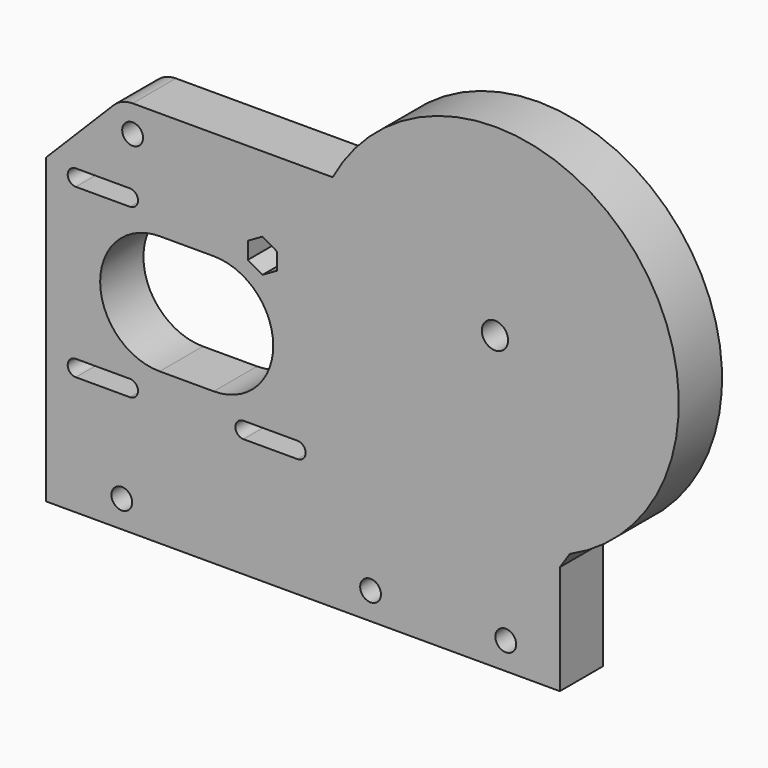
from build123d import *

# Parameters (mm, degrees)
SKETCH_R        = 2.425
SKETCH_R_2      = 1.925
PAD_DEPTH       = 10
POCKET_DEPTH    = 12
SKETCH002_R     = 1.925
POCKET001_DEPTH = 12
SKETCH003_R     = 1.5
POCKET002_DEPTH = 12
POCKET003_DEPTH = 6
CHAMFER_SIZE    = 2


with BuildPart() as part:
    # Sketch → Pad (new body)
    with BuildSketch(Plane.XZ):
        with BuildLine():
            ThreePointArc((12, -31.811947), (25.543993, 22.438904), (-30, 16))
            Line((-30, 16), (-67, 16))
            ThreePointArc((-67, 16), (-68.919984, 15.616672), (-70.545574, 14.525465))
            Line((-83, 2), (-70.545574, 14.525465))
            Line((-83, -54), (-83, 2))
            Line((-83, -54), (12, -54))
            Line((12, -54), (12, -31.811947))
        make_face()
        Circle(SKETCH_R, mode=Mode.SUBTRACT)
        with Locations((-67, 11)):
            Circle(SKETCH_R_2, mode=Mode.SUBTRACT)
    extrude(amount=PAD_DEPTH)

    # Sketch001 (on Face11 of Pad) → Pocket (cut)
    with BuildSketch(Plane.XZ.offset(10)):
        with BuildLine():
            ThreePointArc((-62, -4), (-73, -15), (-62, -26))
            Line((-62, -26), (-52, -26))
            ThreePointArc((-52, -26), (-41, -15), (-52, -4))
            Line((-52, -4), (-62, -4))
        make_face()
        with BuildLine():
            ThreePointArc((-77.5, 2), (-79, 0.5), (-77.5, -1))
            Line((-77.5, -1), (-67.5, -1))
            ThreePointArc((-67.5, -1), (-66, 0.5), (-67.5, 2))
            Line((-67.5, 2), (-77.5, 2))
        make_face()
        with BuildLine():
            ThreePointArc((-77.5, -29), (-79, -30.5), (-77.5, -32))
            Line((-77.5, -32), (-67.5, -32))
            ThreePointArc((-67.5, -32), (-66, -30.5), (-67.5, -29))
            Line((-67.5, -29), (-77.5, -29))
        make_face()
        with BuildLine():
            ThreePointArc((-46.5, -29), (-48, -30.5), (-46.5, -32))
            Line((-46.5, -32), (-36.5, -32))
            ThreePointArc((-36.5, -32), (-35, -30.5), (-36.5, -29))
            Line((-36.5, -29), (-46.5, -29))
        make_face()
    extrude(amount=-POCKET_DEPTH, mode=Mode.SUBTRACT)

    # Sketch002 (on Face5 of Pocket) → Pocket001 (cut)
    with BuildSketch(Plane.XZ.offset(10)):
        with Locations((-69, -49)):
            Circle(SKETCH002_R)
        with Locations((-23, -49)):
            Circle(SKETCH002_R)
        with Locations((2, -49)):
            Circle(SKETCH002_R)
    extrude(amount=-POCKET001_DEPTH, mode=Mode.SUBTRACT)

    # Sketch003 (on Face5 of Pocket001) → Pocket002 (cut)
    with BuildSketch(Plane.XZ.offset(10)):
        with Locations((-43, -1)):
            Circle(SKETCH003_R)
    extrude(amount=-POCKET002_DEPTH, mode=Mode.SUBTRACT)

    # Sketch004 (on Face5 of Pocket002) → Pocket003 (cut)
    with BuildSketch(Plane.XZ.offset(10)):
        Polygon((-43, -4.117691), (-40.3, -2.558846), (-40.3, 0.558846), (-43, 2.117691), (-45.7, 0.558846), (-45.7, -2.558846), align=None)
    extrude(amount=-POCKET003_DEPTH, mode=Mode.SUBTRACT)

    # Chamfer
    chamfer_edges = [part.edges().sort_by_distance(p)[0] for p in [
        (12, -5, -31.811947),
    ]]
    chamfer(chamfer_edges, length=CHAMFER_SIZE)


solid = part.part
